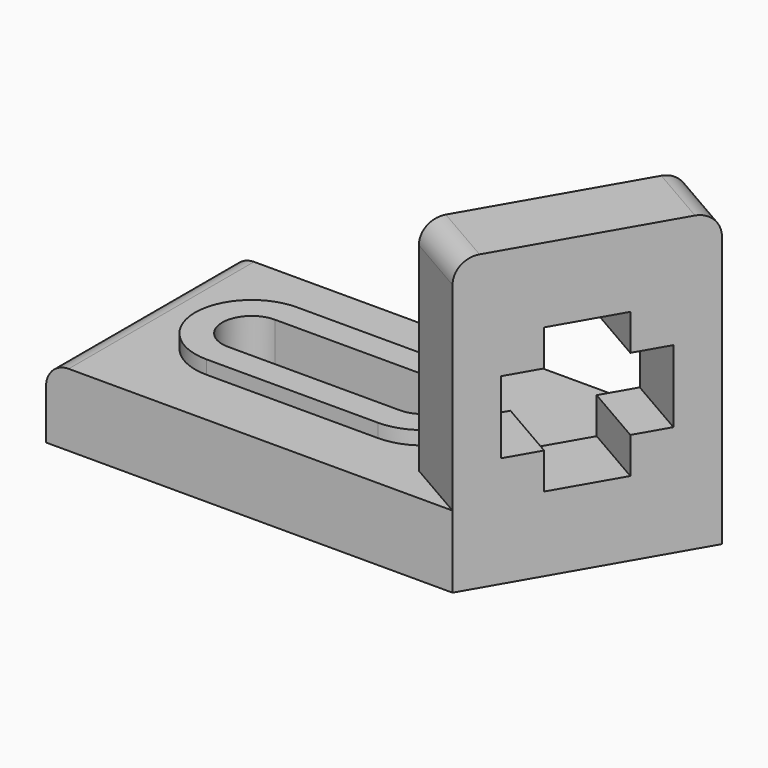
from build123d import *

# Parameters (mm, degrees)
F1_DEPTH  = 32.5
F5_DEPTH  = 16
F6_R      = 5
F8_DEPTH  = 3
F9_DEPTH  = 16.001
F11_DEPTH = 20
F12_R     = 5


with BuildPart() as f1:
    # F0 (on Top) → F1 (new body, symmetric)
    with BuildSketch(Plane.XY):
        Polygon((-13.8564064606, 8), (0, 0), (25, 43.3012701892), (11.1435935394, 51.3012701892), align=None)
    extrude(amount=F1_DEPTH, both=True)

    # F4 (on face) → F5 (join)
    with BuildSketch(Plane(origin=(0, 0, -32.5), x_dir=(1, 0, 0), z_dir=(0, 0, -1))):
        Polygon((-13.8564064606, -8), (0, 0), (-90, 0), (-90, -51.3012701892), (11.1435935394, -51.3012701892), align=None)
    extrude(amount=-F5_DEPTH)

    # F6
    f6_edges = [f1.edges().sort_by_distance(p)[0] for p in [
        (-6.928203, 4, 32.5),
        (18.071797, 47.30127, 32.5),
    ]]
    fillet(f6_edges, radius=F6_R)

    # F7 (on face) → F8 (join)
    with BuildSketch(Plane.XY.offset(-16.5)):
        with BuildLine():
            ThreePointArc((-65, 38.1506350946), (-77.5, 25.6506350946), (-65, 13.1506350946))
            Line((-65, 13.1506350946), (-65, 19.1506350946))
            ThreePointArc((-65, 19.1506350946), (-71.5, 25.6506350946), (-65, 32.1506350946))
            Line((-65, 32.1506350946), (-65, 38.1506350946))
        make_face()
        with BuildLine():
            Line((-65, 19.1506350946), (-65, 13.1506350946))
            ThreePointArc((-65, 13.1506350946), (-58.876275643, 14.7533877358), (-54.322921748, 19.1506350946))
            Line((-54.322921748, 19.1506350946), (-65, 19.1506350946))
        make_face()
        with BuildLine():
            Line((-65, 13.1506350946), (-27, 13.1506350946))
            ThreePointArc((-27, 13.1506350946), (-33.123724357, 14.7533877358), (-37.677078252, 19.1506350946))
            Line((-37.677078252, 19.1506350946), (-54.322921748, 19.1506350946))
            ThreePointArc((-54.322921748, 19.1506350946), (-58.876275643, 14.7533877358), (-65, 13.1506350946))
        make_face()
        with BuildLine():
            Line((-27, 19.1506350946), (-27, 13.1506350946))
            ThreePointArc((-27, 13.1506350946), (-18.1611652352, 16.8118003298), (-14.5, 25.6506350946))
            ThreePointArc((-14.5, 25.6506350946), (-18.1611652352, 34.4894698594), (-27, 38.1506350946))
            Line((-27, 38.1506350946), (-27, 32.1506350946))
            ThreePointArc((-27, 32.1506350946), (-22.4038059223, 30.2468291723), (-20.5, 25.6506350946))
            ThreePointArc((-20.5, 25.6506350946), (-22.4038059223, 21.0544410169), (-27, 19.1506350946))
        make_face()
        with BuildLine():
            ThreePointArc((-37.677078252, 19.1506350946), (-33.123724357, 14.7533877358), (-27, 13.1506350946))
            Line((-27, 13.1506350946), (-27, 19.1506350946))
            Line((-27, 19.1506350946), (-37.677078252, 19.1506350946))
        make_face()
        with BuildLine():
            Line((-37.677078252, 32.1506350946), (-27, 32.1506350946))
            Line((-27, 32.1506350946), (-27, 38.1506350946))
            ThreePointArc((-27, 38.1506350946), (-33.123724357, 36.5478824535), (-37.677078252, 32.1506350946))
        make_face()
        with BuildLine():
            ThreePointArc((-54.322921748, 32.1506350946), (-58.876275643, 36.5478824535), (-65, 38.1506350946))
            Line((-65, 38.1506350946), (-65, 32.1506350946))
            Line((-65, 32.1506350946), (-54.322921748, 32.1506350946))
        make_face()
        with BuildLine():
            Line((-27, 38.1506350946), (-65, 38.1506350946))
            ThreePointArc((-65, 38.1506350946), (-58.876275643, 36.5478824535), (-54.322921748, 32.1506350946))
            Line((-54.322921748, 32.1506350946), (-37.677078252, 32.1506350946))
            ThreePointArc((-37.677078252, 32.1506350946), (-33.123724357, 36.5478824535), (-27, 38.1506350946))
        make_face()
    extrude(amount=F8_DEPTH)

    # F9 (cut, through all): a face of the model
    f9_faces = [f1.faces().sort_by_distance(p)[0] for p in [
        (-46, 25.6506350946, -16.5),
    ]]
    extrude(f9_faces, amount=-F9_DEPTH, mode=Mode.SUBTRACT)

    # F10 (on face) → F11 (cut)
    with BuildSketch(Plane(origin=(0, 0, 0), x_dir=(0.5, 0.8660254038, 0), z_dir=(0.8660254038, -0.5, 0))):
        Polygon((33, -8), (41, -8), (41, 8), (33, 8), (33, 16), (17, 16), (17, 8), (9, 8), (9, -8), (17, -8), (17, -16), (33, -16), align=None)
    extrude(amount=-F11_DEPTH, mode=Mode.SUBTRACT)

    # F12
    f12_edges = [f1.edges().sort_by_distance(p)[0] for p in [
        (-90, 25.650635, -16.5),
    ]]
    fillet(f12_edges, radius=F12_R)


solid = f1.part
